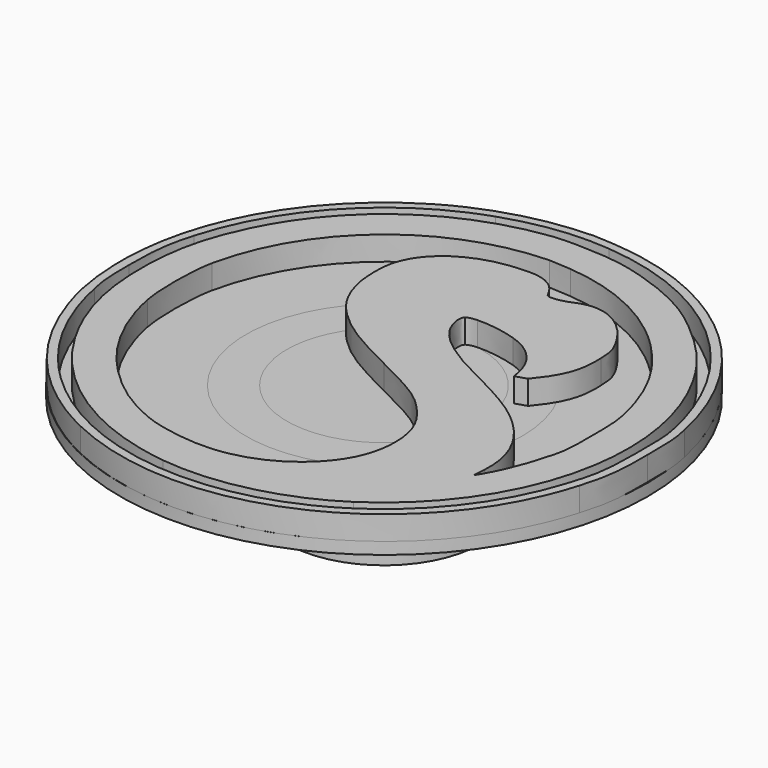
from build123d import *

# Parameters (mm, degrees)
F0_R     = 5.75
F0_R_2   = 4.05
F1_DEPTH = 1
F0_R_3   = 11
F2_DEPTH = 0.5
F3_DEPTH = 4.5
F5_DEPTH = 1


with BuildPart() as f1:
    # F0 (on Top) → F1 (new body)
    with BuildSketch(Plane.XY):
        Circle(F0_R)
        Circle(F0_R_2, mode=Mode.SUBTRACT)
    extrude(amount=-F1_DEPTH)


with BuildPart() as f2:
    # F0 (on Top) → F2 (new body)
    with BuildSketch(Plane.XY):
        Circle(F0_R_3)
        Circle(F0_R, mode=Mode.SUBTRACT)
    extrude(amount=-F2_DEPTH)


with BuildPart() as f3:
    # F0 (on Top) → F3 (new body)
    with BuildSketch(Plane.XY):
        Circle(F0_R_2)
    extrude(amount=-F3_DEPTH)


with BuildPart() as f5:
    # F4 (on face) → F5 (new body)
    with BuildSketch(Plane.XY):
        with BuildLine():
            add(Edge.make_bspline(
                [(1.821061, 10.007822), (1.067119, 10.144363), (-0.387336, 10.197792), (-1.058167, 10.120617)],
                knots=[0, 0, 0, 0, 1, 1, 1, 1], degree=3))
            add(Edge.make_bspline(
                [(-1.058167, 10.120617), (-4.643845, 9.675375), (-7.606185, 7.579772), (-9.137815, 4.39778)],
                knots=[0, 0, 0, 0, 1, 1, 1, 1], degree=3))
            add(Edge.make_bspline(
                [(-9.137815, 4.39778), (-9.796773, 3.026436), (-10.069854, 1.910364), (-10.123283, 0.396543)],
                knots=[0, 0, 0, 0, 1, 1, 1, 1], degree=3))
            add(Edge.make_bspline(
                [(-10.123283, 0.396543), (-10.194522, -1.68125), (-9.761154, -3.43847), (-8.746003, -5.166007)],
                knots=[0, 0, 0, 0, 1, 1, 1, 1], degree=3))
            add(Edge.make_bspline(
                [(-8.746003, -5.166007), (-7.143134, -7.896821), (-4.329208, -9.719343), (-1.117532, -10.117092)],
                knots=[0, 0, 0, 0, 1, 1, 1, 1], degree=3))
            add(Edge.make_bspline(
                [(-1.117532, -10.117092), (1.120548, -10.39611), (3.637646, -9.802455), (5.56109, -8.537969)],
                knots=[0, 0, 0, 0, 1, 1, 1, 1], degree=3))
            add(Edge.make_bspline(
                [(5.56109, -8.537969), (10.482492, -5.296611), (11.675739, 1.269217), (8.214729, 6.024395)],
                knots=[0, 0, 0, 0, 1, 1, 1, 1], degree=3))
            add(Edge.make_bspline(
                [(8.214729, 6.024395), (7.549835, 6.932688), (6.344715, 8.036887), (5.323627, 8.683971)],
                knots=[0, 0, 0, 0, 1, 1, 1, 1], degree=3))
            add(Edge.make_bspline(
                [(5.323627, 8.683971), (4.403462, 9.259817), (2.996499, 9.78817), (1.821061, 10.007822)],
                knots=[0, 0, 0, 0, 1, 1, 1, 1], degree=3))
        make_face()
        with BuildLine():
            add(Edge.make_bspline(
                [(8.564985, -1.87122), (8.321587, -2.850751), (7.965393, -3.759044), (7.555771, -4.435811)],
                knots=[0, 0, 0, 0, 1, 1, 1, 1], degree=3))
            Line((7.555771, -4.435811), (7.43704, -4.625781))
            Line((7.43704, -4.625781), (7.47266, -4.091491))
            add(Edge.make_bspline(
                [(7.47266, -4.091491), (7.549835, -2.803259), (6.985862, -1.663441), (5.774805, -0.64829)],
                knots=[0, 0, 0, 0, 1, 1, 1, 1], degree=3))
            add(Edge.make_bspline(
                [(5.774805, -0.64829), (5.369166379, -0.3095147064), (4.8129105192, 0.0459959613), (4.0231021658, 0.4659924503)],
                knots=[0, 0, 0, 0, 0.7508683792, 0.7508683792, 0.7508683792, 0.7508683792], degree=3))
            ThreePointArc((4.0231021658, 0.4659924503), (4.0432699496, 0.233384049), (4.05, 0))
            ThreePointArc((4.05, 0), (3.8528985202, -1.2480677037), (3.2807787688, -2.3746559056))
            add(Edge.make_bspline(
                [(3.2807787688, -2.3746559056), (3.7777183906, -2.9976044847), (3.987903, -3.6147553144), (3.987903, -4.412065)],
                knots=[0.149967925, 0.149967925, 0.149967925, 0.149967925, 1, 1, 1, 1], degree=3))
            add(Edge.make_bspline(
                [(3.987903, -4.412065), (3.987903, -5.587502), (3.471423, -6.59078), (2.456272, -7.404087)],
                knots=[0, 0, 0, 0, 1, 1, 1, 1], degree=3))
            add(Edge.make_bspline(
                [(2.456272, -7.404087), (1.637028, -8.051172), (0.66937, -8.419238), (-0.428892, -8.496413)],
                knots=[0, 0, 0, 0, 1, 1, 1, 1], degree=3))
            add(Edge.make_bspline(
                [(-0.428892, -8.496413), (-1.349058, -8.561715), (-2.672909, -8.347999), (-3.450598, -8.015552)],
                knots=[0, 0, 0, 0, 1, 1, 1, 1], degree=3))
            add(Edge.make_bspline(
                [(-3.450598, -8.015552), (-4.507304, -7.564374), (-5.320612, -7.000402), (-6.193285, -6.121792)],
                knots=[0, 0, 0, 0, 1, 1, 1, 1], degree=3))
            add(Edge.make_bspline(
                [(-6.193285, -6.121792), (-7.416215, -4.886989), (-8.223586, -3.355358), (-8.579779, -1.604075)],
                knots=[0, 0, 0, 0, 1, 1, 1, 1], degree=3))
            add(Edge.make_bspline(
                [(-8.579779, -1.604075), (-8.740066, -0.796704), (-8.728193, 0.913023), (-8.550097, 1.732268)],
                knots=[0, 0, 0, 0, 1, 1, 1, 1], degree=3))
            add(Edge.make_bspline(
                [(-8.550097, 1.732268), (-7.671487, 5.786933), (-4.257969, 8.624606), (-0.108318, 8.749273)],
                knots=[0, 0, 0, 0, 1, 1, 1, 1], degree=3))
            add(Edge.make_bspline(
                [(-0.108318, 8.749273), (0.040095, 8.749273), (0.455654, 8.725527), (0.811847, 8.695844)],
                knots=[0, 0, 0, 0, 1, 1, 1, 1], degree=3))
            add(Edge.make_bspline(
                [(0.811847, 8.695844), (2.871831, 8.505875), (4.694353, 7.639138), (6.190364, 6.149063)],
                knots=[0, 0, 0, 0, 1, 1, 1, 1], degree=3))
            add(Edge.make_bspline(
                [(6.190364, 6.149063), (7.45485, 4.878641), (8.214729, 3.477614), (8.600605, 1.684775)],
                knots=[0, 0, 0, 0, 1, 1, 1, 1], degree=3))
            add(Edge.make_bspline(
                [(8.600605, 1.684775), (8.683716, 1.292963), (8.707463, 0.924896), (8.707463, -0.060571)],
                knots=[0, 0, 0, 0, 1, 1, 1, 1], degree=3))
            add(Edge.make_bspline(
                [(8.707463, -0.060571), (8.707463, -1.170707), (8.689653, -1.37255), (8.564985, -1.87122)],
                knots=[0, 0, 0, 0, 1, 1, 1, 1], degree=3))
        make_face(mode=Mode.SUBTRACT)
        with BuildLine():
            ThreePointArc((-3.3696751221, 2.2467286378), (-1.5939380905, 3.7231520737), (0.7000480184, 3.9890390788))
            add(Edge.make_bspline(
                [(0.7000480184, 3.9890390788), (1.1379546196, 4.0120607961), (1.8061392986, 3.919706757), (2.39097, 3.732886)],
                knots=[0.3158778641, 0.3158778641, 0.3158778641, 0.3158778641, 1, 1, 1, 1], degree=3))
            add(Edge.make_bspline(
                [(2.39097, 3.732886), (3.382375, 3.418249), (3.99384, 2.67618), (4.094761, 1.643219)],
                knots=[0, 0, 0, 0, 1, 1, 1, 1], degree=3))
            Line((4.094761, 1.643219), (4.569685, 1.791633))
            add(Edge.make_bspline(
                [(4.569685, 1.791633), (5.341437, 2.723672), (5.567026, 3.341074), (5.519534, 4.403716)],
                knots=[0, 0, 0, 0, 1, 1, 1, 1], degree=3))
            add(Edge.make_bspline(
                [(5.519534, 4.403716), (5.495787, 4.955816), (5.472041, 5.050801), (5.276135, 5.44855)],
                knots=[0, 0, 0, 0, 1, 1, 1, 1], degree=3))
            add(Edge.make_bspline(
                [(5.276135, 5.44855), (5.151467, 5.691948), (4.902132, 6.054078), (4.700289, 6.279667)],
                knots=[0, 0, 0, 0, 1, 1, 1, 1], degree=3))
            add(Edge.make_bspline(
                [(4.700289, 6.279667), (3.999776, 7.039546), (3.156786, 7.271072), (2.373161, 6.903005)],
                knots=[0, 0, 0, 0, 1, 1, 1, 1], degree=3))
            add(Edge.make_bspline(
                [(2.373161, 6.903005), (2.177254, 6.813957), (1.904173, 6.736782), (1.726076, 6.730845)],
                knots=[0, 0, 0, 0, 1, 1, 1, 1], degree=3))
            add(Edge.make_bspline(
                [(1.726076, 6.730845), (1.441122, 6.713036), (1.417376, 6.724909), (1.334264, 6.891132)],
                knots=[0, 0, 0, 0, 1, 1, 1, 1], degree=3))
            add(Edge.make_bspline(
                [(1.334264, 6.891132), (1.049309, 7.449168), (0.580322, 7.698503), (-0.149874, 7.692567)],
                knots=[0, 0, 0, 0, 1, 1, 1, 1], degree=3))
            add(Edge.make_bspline(
                [(-0.149874, 7.692567), (-2.055508, 7.680694), (-3.551519, 6.796147), (-3.943332, 5.454486)],
                knots=[0, 0, 0, 0, 1, 1, 1, 1], degree=3))
            add(Edge.make_bspline(
                [(-3.943332, 5.454486), (-4.085809, 4.967689), (-4.073936, 4.059396), (-3.913649, 3.453868)],
                knots=[0, 0, 0, 0, 1, 1, 1, 1], degree=3))
            add(Edge.make_bspline(
                [(-3.913649, 3.453868), (-3.7912850675, 2.9911800647), (-3.6221236187, 2.6073094793), (-3.3696751221, 2.2467286378)],
                knots=[0, 0, 0, 0, 0.6441224008, 0.6441224008, 0.6441224008, 0.6441224008], degree=3))
        make_face()
        with BuildLine():
            ThreePointArc((4.05, 0), (4.0432699496, 0.233384049), (4.0231021658, 0.4659924503))
            add(Edge.make_bspline(
                [(4.0231021658, 0.4659924503), (3.7610505991, 0.6053436455), (3.4732882919, 0.7517937938), (3.156786, 0.907087)],
                knots=[0.7508683792, 0.7508683792, 0.7508683792, 0.7508683792, 1, 1, 1, 1], degree=3))
            add(Edge.make_bspline(
                [(3.156786, 0.907087), (1.54798, 1.690712), (0.710926, 2.325923), (0.366606, 3.008627)],
                knots=[0, 0, 0, 0, 1, 1, 1, 1], degree=3))
            add(Edge.make_bspline(
                [(0.366606, 3.008627), (0.176636, 3.400439), (0.13508, 3.768505), (0.271621, 3.8813)],
                knots=[0, 0, 0, 0, 1, 1, 1, 1], degree=3))
            add(Edge.make_bspline(
                [(0.271621, 3.8813), (0.3447546225, 3.9431823688), (0.4978545874, 3.9784093235), (0.7000480184, 3.9890390788)],
                knots=[0, 0, 0, 0, 0.3158778641, 0.3158778641, 0.3158778641, 0.3158778641], degree=3))
            ThreePointArc((0.7000480184, 3.9890390788), (-1.5939380905, 3.7231520737), (-3.3696751221, 2.2467286378))
            add(Edge.make_bspline(
                [(-3.3696751221, 2.2467286378), (-3.2301973383, 2.0475077381), (-3.0652956666, 1.8553961772), (-2.868816, 1.661029)],
                knots=[0.6441224008, 0.6441224008, 0.6441224008, 0.6441224008, 1, 1, 1, 1], degree=3))
            add(Edge.make_bspline(
                [(-2.868816, 1.661029), (-2.215795, 1.008008), (-1.521218, 0.568703), (0.247875, -0.30397)],
                knots=[0, 0, 0, 0, 1, 1, 1, 1], degree=3))
            add(Edge.make_bspline(
                [(0.247875, -0.30397), (2.005094, -1.170707), (2.402843, -1.425978), (2.990562, -2.04338)],
                knots=[0, 0, 0, 0, 1, 1, 1, 1], degree=3))
            add(Edge.make_bspline(
                [(2.990562, -2.04338), (3.0965068406, -2.1546665481), (3.193105602, -2.2647514578), (3.2807787688, -2.3746559056)],
                knots=[0, 0, 0, 0, 0.149967925, 0.149967925, 0.149967925, 0.149967925], degree=3))
            ThreePointArc((3.2807787688, -2.3746559056), (3.8528985202, -1.2480677037), (4.05, 0))
        make_face()
    extrude(amount=F5_DEPTH)


with BuildPart() as f5b:
    # F4 (on face) → F5, piece 2 (new body)
    with BuildSketch(Plane.XY):
        with BuildLine():
            add(Edge.make_bspline(
                [(0.811847, 10.951734), (-0.01927, 11.017036), (-0.043016, 11.017036), (-0.927563, 10.945798)],
                knots=[0, 0, 0, 0, 1, 1, 1, 1], degree=3))
            add(Edge.make_bspline(
                [(-0.927563, 10.945798), (-2.512622, 10.815194), (-4.20454, 10.269031), (-5.564011, 9.455723)],
                knots=[0, 0, 0, 0, 1, 1, 1, 1], degree=3))
            add(Edge.make_bspline(
                [(-5.564011, 9.455723), (-9.066577, 7.36012), (-11.108751, 3.620091), (-10.954401, -0.416764)],
                knots=[0, 0, 0, 0, 1, 1, 1, 1], degree=3))
            add(Edge.make_bspline(
                [(-10.954401, -0.416764), (-10.912845, -1.5269), (-10.746621, -2.447066), (-10.408238, -3.45628)],
                knots=[0, 0, 0, 0, 1, 1, 1, 1], degree=3))
            add(Edge.make_bspline(
                [(-10.408238, -3.45628), (-9.458389, -6.317698), (-7.434025, -8.615144), (-4.726957, -9.915249)],
                knots=[0, 0, 0, 0, 1, 1, 1, 1], degree=3))
            add(Edge.make_bspline(
                [(-4.726957, -9.915249), (1.399566, -12.853843), (8.695589, -9.576866), (10.583413, -3.040721)],
                knots=[0, 0, 0, 0, 1, 1, 1, 1], degree=3))
            add(Edge.make_bspline(
                [(10.583413, -3.040721), (10.909924, -1.924649), (10.963353, -1.491281), (10.957416, 0.028477)],
                knots=[0, 0, 0, 0, 1, 1, 1, 1], degree=3))
            add(Edge.make_bspline(
                [(10.957416, 0.028477), (10.957416, 1.310772), (10.945543, 1.482932), (10.797129, 2.171573)],
                knots=[0, 0, 0, 0, 1, 1, 1, 1], degree=3))
            add(Edge.make_bspline(
                [(10.797129, 2.171573), (10.066933, 5.614773), (7.882282, 8.404953), (4.747782, 9.912838)],
                knots=[0, 0, 0, 0, 1, 1, 1, 1], degree=3))
            add(Edge.make_bspline(
                [(4.747782, 9.912838), (3.507042, 10.506493), (2.290049, 10.827067), (0.811847, 10.951734)],
                knots=[0, 0, 0, 0, 1, 1, 1, 1], degree=3))
        make_face()
        with BuildLine():
            add(Edge.make_bspline(
                [(-3.403105, 10.055315), (-1.936777, 10.553985), (-0.57137, 10.726145), (0.900895, 10.595541)],
                knots=[0, 0, 0, 0, 1, 1, 1, 1], degree=3))
            add(Edge.make_bspline(
                [(0.900895, 10.595541), (5.644201, 10.174046), (9.443595, 6.784274), (10.470619, 2.046905)],
                knots=[0, 0, 0, 0, 1, 1, 1, 1], degree=3))
            add(Edge.make_bspline(
                [(10.470619, 2.046905), (10.58935, 1.494806), (10.601223, 1.257343), (10.601223, -0.001206)],
                knots=[0, 0, 0, 0, 1, 1, 1, 1], degree=3))
            add(Edge.make_bspline(
                [(10.601223, -0.001206), (10.601223, -1.568456), (10.541857, -2.013697), (10.150045, -3.224754)],
                knots=[0, 0, 0, 0, 1, 1, 1, 1], degree=3))
            add(Edge.make_bspline(
                [(10.150045, -3.224754), (9.265499, -5.997124), (7.28269, -8.288634), (4.670607, -9.564993)],
                knots=[0, 0, 0, 0, 1, 1, 1, 1], degree=3))
            add(Edge.make_bspline(
                [(4.670607, -9.564993), (0.182573, -11.755581), (-5.166262, -10.538587), (-8.300762, -6.614526)],
                knots=[0, 0, 0, 0, 1, 1, 1, 1], degree=3))
            add(Edge.make_bspline(
                [(-8.300762, -6.614526), (-9.357468, -5.296611), (-10.052045, -3.8006), (-10.420111, -2.055253)],
                knots=[0, 0, 0, 0, 1, 1, 1, 1], degree=3))
            add(Edge.make_bspline(
                [(-10.420111, -2.055253), (-10.562588, -1.384423), (-10.580398, -1.18258), (-10.580398, -0.060571)],
                knots=[0, 0, 0, 0, 1, 1, 1, 1], degree=3))
            add(Edge.make_bspline(
                [(-10.580398, -0.060571), (-10.586334, 1.28109), (-10.509159, 1.868808), (-10.218268, 2.878022)],
                knots=[0, 0, 0, 0, 1, 1, 1, 1], degree=3))
            add(Edge.make_bspline(
                [(-10.218268, 2.878022), (-9.25061, 6.255921), (-6.703829, 8.933306), (-3.403105, 10.055315)],
                knots=[0, 0, 0, 0, 1, 1, 1, 1], degree=3))
        make_face(mode=Mode.SUBTRACT)
    extrude(amount=F5_DEPTH)


solid = Compound([f1.part, f2.part, f3.part, f5.part, f5b.part])
